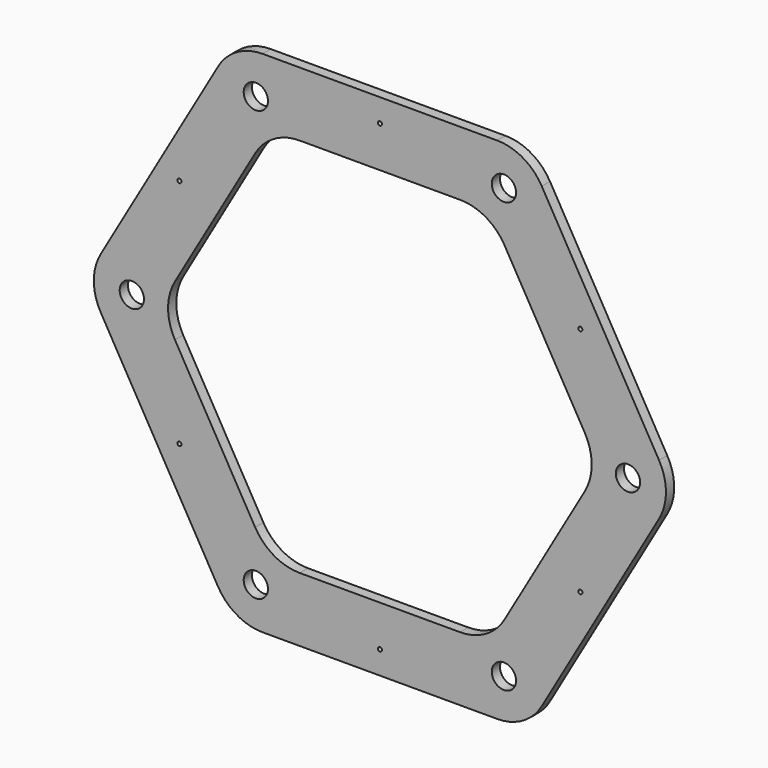
from build123d import *

# Parameters (mm, degrees)
F1_DEPTH = 5.08
F2_R     = 5.9944
F3_DEPTH = 5.08
F4_R     = 1.016
F5_DEPTH = 5.081


with BuildPart() as f1:
    # F0 (on Front) → F1 (new body)
    with BuildSketch(Plane.XZ):
        with BuildLine():
            Line((57.925553, 125.73), (-57.925553, 125.73))
            ThreePointArc((-57.925553, 125.73), (-70.625553, 122.327045), (-79.922598, 113.03))
            Line((-79.922598, 113.03), (-137.84815, 12.7))
            ThreePointArc((-137.84815, 12.7), (-141.251105, 0), (-137.84815, -12.7))
            Line((-137.84815, -12.7), (-79.922598, -113.03))
            ThreePointArc((-79.922598, -113.03), (-70.625553, -122.327045), (-57.925553, -125.73))
            Line((-57.925553, -125.73), (57.925553, -125.73))
            ThreePointArc((57.925553, -125.73), (70.625553, -122.327045), (79.922598, -113.03))
            Line((79.922598, -113.03), (137.84815, -12.7))
            ThreePointArc((137.84815, -12.7), (141.251105, 0), (137.84815, 12.7))
            Line((137.84815, 12.7), (79.922598, 113.03))
            ThreePointArc((79.922598, 113.03), (70.625553, 122.327045), (57.925553, 125.73))
        make_face()
        with BuildLine():
            ThreePointArc((39.594681, 93.98), (52.294681, 90.577045), (61.591727, 81.28))
            Line((61.591727, 81.28), (101.186408, 12.7))
            ThreePointArc((101.186408, 12.7), (104.589363, 0), (101.186408, -12.7))
            Line((101.186408, -12.7), (61.591727, -81.28))
            ThreePointArc((61.591727, -81.28), (52.294681, -90.577045), (39.594681, -93.98))
            Line((39.594681, -93.98), (-39.594681, -93.98))
            ThreePointArc((-39.594681, -93.98), (-52.294681, -90.577045), (-61.591727, -81.28))
            Line((-61.591727, -81.28), (-101.186408, -12.7))
            ThreePointArc((-101.186408, -12.7), (-104.589363, 0), (-101.186408, 12.7))
            Line((-101.186408, 12.7), (-61.591727, 81.28))
            ThreePointArc((-61.591727, 81.28), (-52.294681, 90.577045), (-39.594681, 93.98))
            Line((-39.594681, 93.98), (39.594681, 93.98))
        make_face(mode=Mode.SUBTRACT)
    extrude(amount=F1_DEPTH)

    # F2 (on face) → F3 (cut, through all)
    with BuildSketch(Plane.XZ.offset(5.08)):
        with Locations((-61.244378, 106.078375)):
            Circle(F2_R)
        with Locations((-122.488757, 0)):
            Circle(F2_R)
        with Locations((-61.244378, -106.078375)):
            Circle(F2_R)
        with Locations((61.244378, -106.078375)):
            Circle(F2_R)
        with Locations((122.488757, 0)):
            Circle(F2_R)
        with Locations((61.244378, 106.078375)):
            Circle(F2_R)
    extrude(amount=-F3_DEPTH, mode=Mode.SUBTRACT)

    # F4 (on face) → F5 (cut, through all)
    with BuildSketch(Plane.XZ.offset(5.08)):
        with Locations((0, 114.3)):
            Circle(F4_R)
        with Locations((-98.986704, 57.15)):
            Circle(F4_R)
        with Locations((-98.986704, -57.15)):
            Circle(F4_R)
        with Locations((0, -114.3)):
            Circle(F4_R)
        with Locations((98.986704, -57.15)):
            Circle(F4_R)
        with Locations((98.986704, 57.15)):
            Circle(F4_R)
    extrude(amount=-F5_DEPTH, mode=Mode.SUBTRACT)


solid = f1.part
